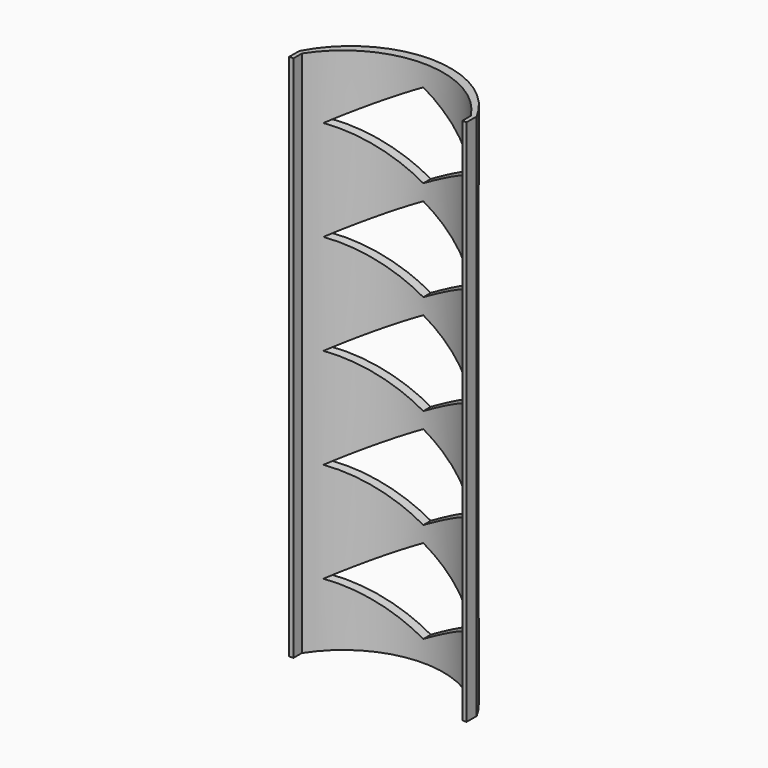
from build123d import *

# Parameters (mm, degrees)
F1_DEPTH = 250
F3_DEPTH = 250.001
F5_DEPTH = 47.501


with BuildPart() as f1:
    # F0 (on Top) → F1 (new body)
    with BuildSketch(Plane.XY):
        with BuildLine():
            Line((42, 16.186708), (42, 22.186708))
            ThreePointArc((42, 22.186708), (0, 47.5), (-42, 22.186708))
            Line((-42, 22.186708), (-42, 16.186708))
            Line((-42, 16.186708), (42, 16.186708))
        make_face()
    extrude(amount=F1_DEPTH)

    # F2 (on face) → F3 (cut, through all)
    with BuildSketch(Plane.XY.offset(250)):
        with BuildLine():
            ThreePointArc((40, 21.186708), (0, 43.069331), (-40, 21.186708))
            Line((-40, 21.186708), (-40, 16.186708))
            Line((-40, 16.186708), (40, 16.186708))
            Line((40, 16.186708), (40, 21.186708))
        make_face()
    extrude(amount=-F3_DEPTH, mode=Mode.SUBTRACT)

    # F4 (on Front) → F5 (cut, through all)
    with BuildSketch(Plane.XZ):
        Polygon((35, 220), (0, 240), (-35, 220), (0, 200), align=None)
        Polygon((35, 172.5), (0, 192.5), (-35, 172.5), (0, 152.5), align=None)
        Polygon((35, 125), (0, 145), (-35, 125), (0, 105), align=None)
        Polygon((35, 77.5), (0, 97.5), (-35, 77.5), (0, 57.5), align=None)
        Polygon((35, 30), (0, 50), (-35, 30), (0, 10), align=None)
    extrude(amount=-F5_DEPTH, mode=Mode.SUBTRACT)


solid = f1.part
